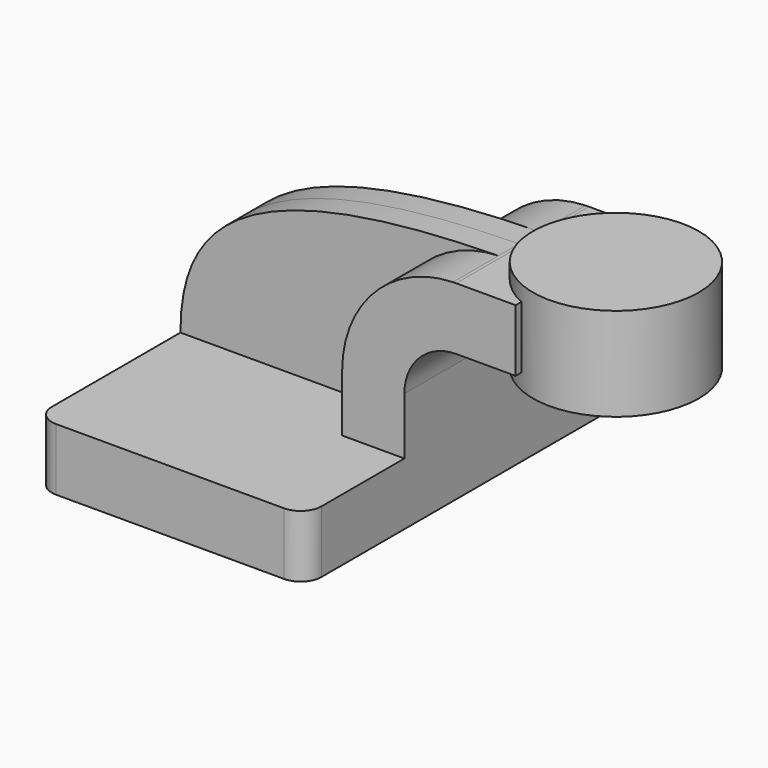
from build123d import *

# Parameters (mm, degrees)
F1_DEPTH = 63.5
F0_W     = 15.006551
F0_H     = 19.05
F2_DEPTH = 25.4
F3_DEPTH = 7.9375
F4_R     = 6.35


with BuildPart() as f1:
    # F0 (on Front) → F1 (new body, symmetric)
    with BuildSketch(Plane.XZ):
        Polygon((22.225, 9.525), (-41.275, 9.525), (-41.275, -9.525), (41.275, -9.525), (41.275, 9.525), align=None)
    extrude(amount=F1_DEPTH, both=True)

    # F0 (on Front) → F2 (join, symmetric)
    with BuildSketch(Plane.XZ):
        with BuildLine():
            Line((22.225, 27.0002), (22.225, 9.525))
            Line((22.225, 9.525), (41.275, 9.525))
            Line((41.275, 9.525), (41.275, 27.0002))
            ThreePointArc((41.275, 27.0002), (45.92468, 38.22552), (57.15, 42.8752))
            Line((57.15, 42.8752), (60.325, 42.8752))
            Line((60.325, 42.8752), (60.325, 61.9252))
            Line((60.325, 61.9252), (57.15, 61.9252))
            add(Edge.make_bspline(
                [(56.129784, 61.910296), (56.468748, 61.915623), (56.808819, 61.920592), (57.15, 61.9252)],
                knots=[111.022538, 111.022538, 111.022538, 111.022538, 111.504536, 111.504536, 111.504536, 111.504536], degree=3))
            ThreePointArc((56.129784, 61.910296), (32.096191, 51.33253), (22.225, 27.0002))
        make_face()
        with Locations((67.828275, 52.4002)):
            Rectangle(F0_W, F0_H)
    extrude(amount=F2_DEPTH, both=True)

    # F0 (on Front) → F3 (join, symmetric)
    with BuildSketch(Plane.XZ):
        with BuildLine():
            add(Edge.make_bspline(
                [(-41.275, 9.525), (-41.285966, 40.392941), (-21.946413, 60.683143), (56.129784, 61.910296)],
                knots=[0, 0, 0, 0, 111.022538, 111.022538, 111.022538, 111.022538], degree=3))
            Line((-41.275, 9.525), (22.225, 9.525))
            Line((22.225, 9.525), (22.225, 27.0002))
            ThreePointArc((22.225, 27.0002), (32.096191, 51.33253), (56.129784, 61.910296))
        make_face()
    extrude(amount=F3_DEPTH, both=True)

    # F4
    f4_edges = [f1.edges().sort_by_distance(p)[0] for p in [
        (41.275, -63.5, 0),
        (-41.275, -63.5, 0),
        (41.275, 63.5, 0),
        (-41.275, 63.5, 0),
    ]]
    fillet(f4_edges, radius=F4_R)


with BuildPart() as f5:
    # F0 (on Front) → F5 (revolve)
    with BuildSketch(Plane.XZ):
        Polygon((111.125, 66.675), (85.725, 66.675), (85.725, 52.3875), (85.725, 38.1), (111.125, 38.1), align=None)
    revolve(axis=Axis((85.725, 0, 52.3875), (0, 0, -1)))


solid = Compound([f1.part, f5.part])
